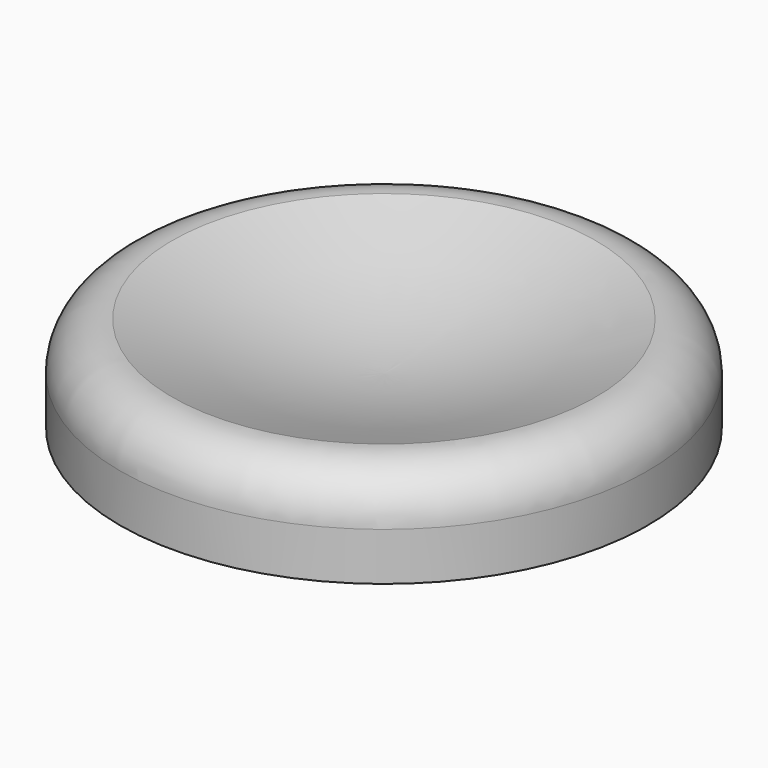
from build123d import *


with BuildPart() as f1:
    # F0 (on Right) → F1 (revolve)
    with BuildSketch(Plane.YZ):
        with BuildLine():
            Line((11, -1), (11, 1))
            ThreePointArc((11, 1), (10.355304, 2.478053), (8.829577, 3))
            add(Edge.make_bspline(
                [(8.829577, 3), (5.771743, 1.975766), (3.177914, 1.026395), (0, 1)],
                knots=[0, 0, 0, 0, 9.053255, 9.053255, 9.053255, 9.053255], degree=3))
            Line((0, 1), (0, -1))
            Line((0, -1), (11, -1))
        make_face()
    revolve(axis=Axis((0, 0, 0), (0, 0, 1)))


solid = f1.part
